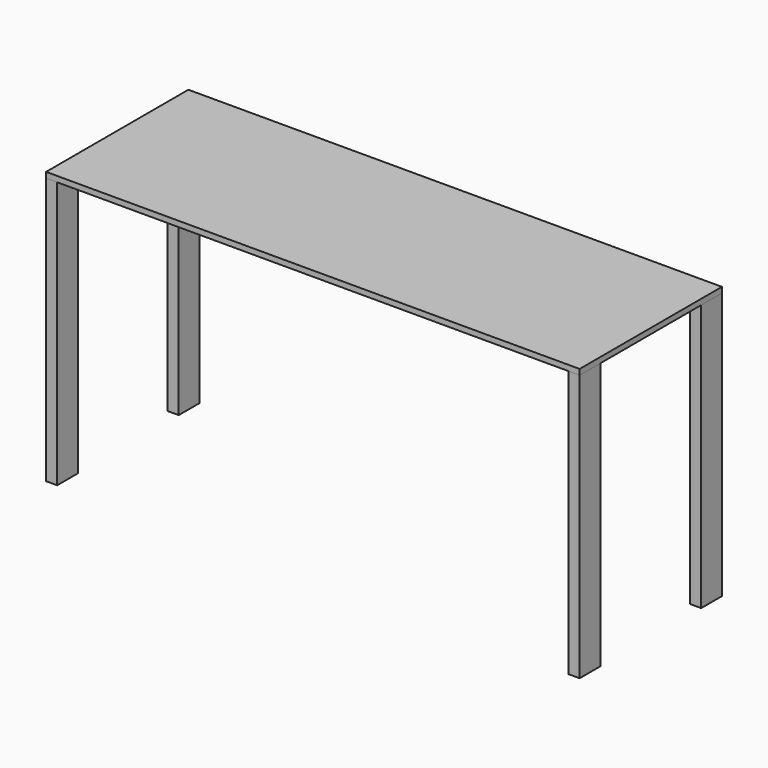
from build123d import *

# Parameters (mm, degrees)
F0_W     = 38.1
F0_H     = 88.9
F1_DEPTH = 914.4
F4_W     = 1828.8
F4_H     = 609.6
F5_DEPTH = 19.05


with BuildPart() as f1:
    # F0 (on Top) → F1 (new body)
    with BuildSketch(Plane.XY):
        with Locations((-895.35, 565.15)):
            Rectangle(F0_W, F0_H)
    extrude(amount=F1_DEPTH)


with BuildPart() as f1b:
    # F0 (on Top) → F1, piece 2 (new body)
    with BuildSketch(Plane.XY):
        with Locations((-895.35, 44.45)):
            Rectangle(F0_W, F0_H)
    extrude(amount=F1_DEPTH)


with BuildPart() as f2_1:
    # F2: instance of F1b
    add(f1b.part.mirror(Plane.YZ))


with BuildPart() as f2_2:
    # F2: instance of F1
    add(f1.part.mirror(Plane.YZ))


with BuildPart() as f5:
    # F4 (on plane+point) → F5 (new body)
    with BuildSketch(Plane.XY.offset(914.4)):
        with Locations((0, 304.8)):
            Rectangle(F4_W, F4_H)
    extrude(amount=F5_DEPTH)


solid = Compound([f1.part, f1b.part, f2_1.part, f2_2.part, f5.part])
